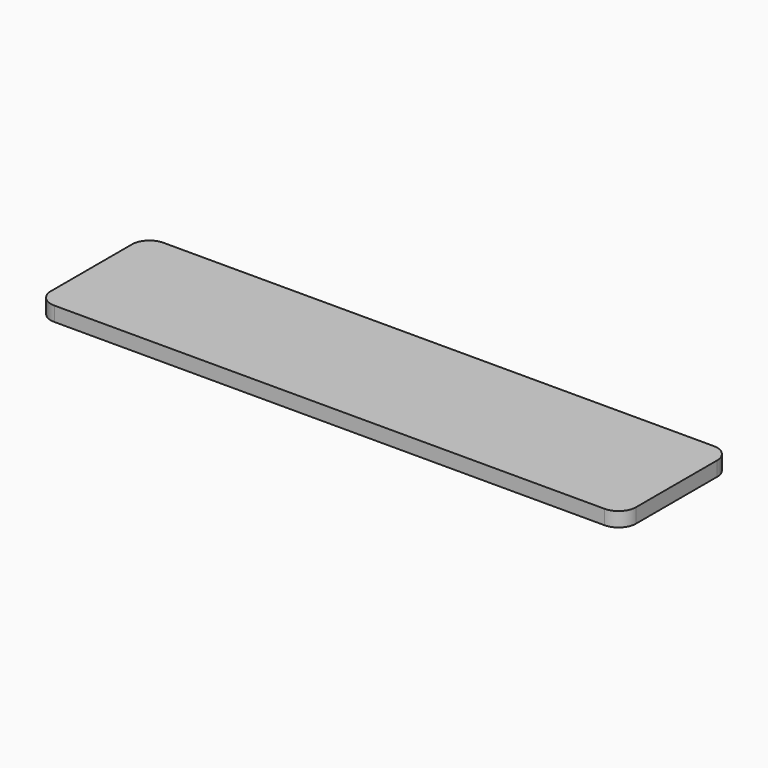
from build123d import *

# Parameters (mm, degrees)
SKETCH002_W    = 202
SKETCH002_H    = 47
PAD001_DEPTH   = 5
FILLET001_R    = 6
THICKNESS001_T = -1


with BuildPart() as part:
    # Sketch002 → Pad001 (new body)
    with BuildSketch(Plane.XY):
        Rectangle(SKETCH002_W, SKETCH002_H)
    extrude(amount=PAD001_DEPTH)

    # Fillet001
    fillet001_edges = [part.edges().sort_by_distance(p)[0] for p in [
        (-101, -23.5, 2.5),
        (101, -23.5, 2.5),
        (-101, 23.5, 2.5),
        (101, 23.5, 2.5),
    ]]
    fillet(fillet001_edges, radius=FILLET001_R)

    # Thickness001
    thickness001_openings = [part.faces().sort_by_distance(p)[0] for p in [
        (0, 0, 0),
    ]]
    offset(amount=THICKNESS001_T, openings=thickness001_openings)


solid = part.part
